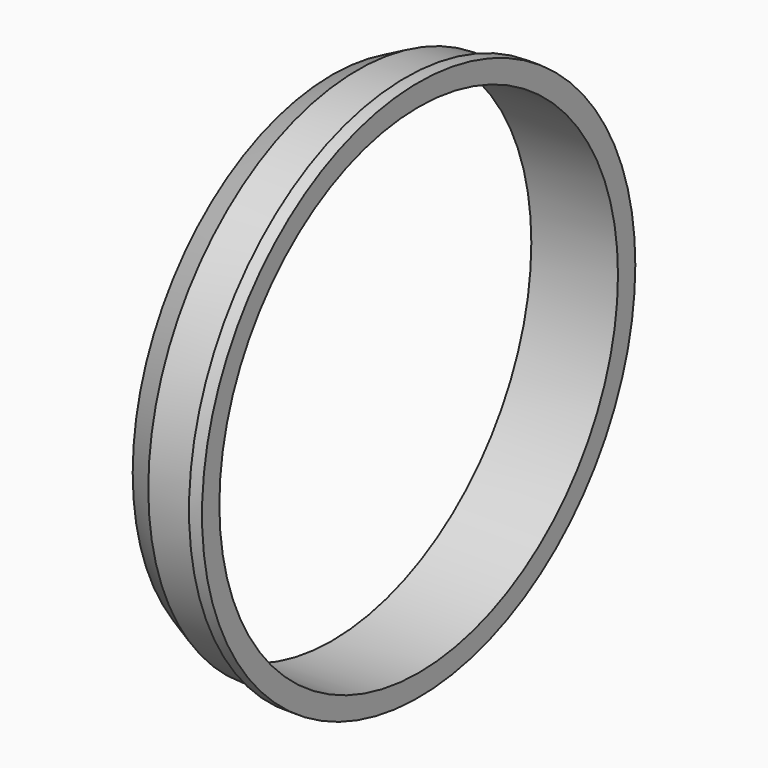
from build123d import *


with BuildPart() as f2:
    # F2: sweep along a path in F0
    with BuildLine(Plane.YZ) as f2_path:
        CenterArc((0, 0), 57.5, 0, 360)
    # F1 (on Front) → F2 (sweep)
    with BuildSketch(Plane.XZ):
        Polygon((6, 60.5), (0, 57.5), (20, 57.5), (20, 62.5), (17, 62.5), (17, 60.5), align=None)
    sweep(path=f2_path.line)


solid = f2.part
